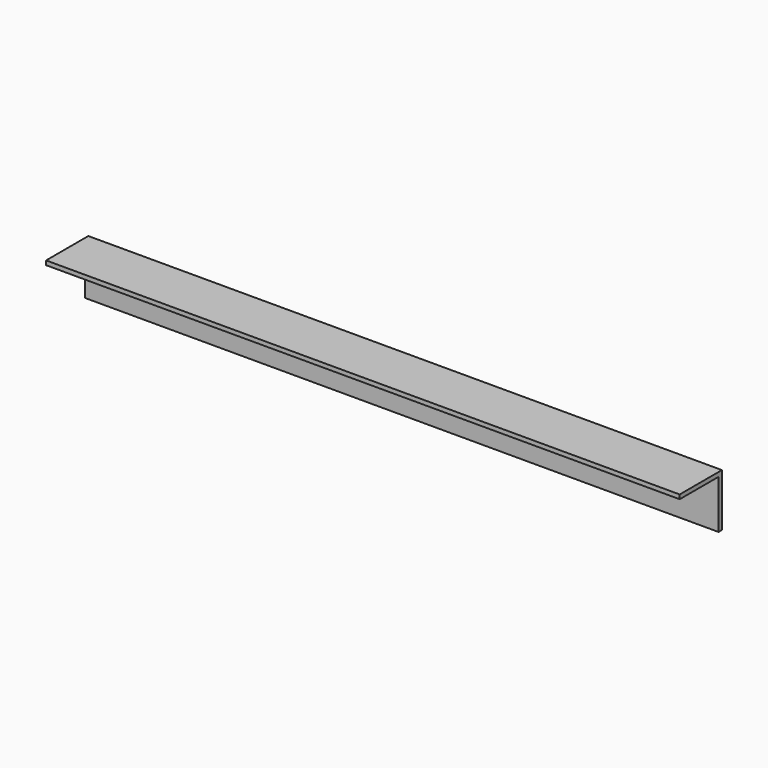
from build123d import *

# Parameters (mm, degrees)
F2_DEPTH = 150


with BuildPart() as f2:
    # F1 (on Right) → F2 (new body, through all)
    with BuildSketch(Plane.YZ):
        Polygon((-234.807621, 0), (-259.807621, 0), (-259.807621, -2), (-236.807621, -2), (-236.807621, -25), (-234.807621, -25), align=None)
    extrude(amount=F2_DEPTH)

    # F3: F2 across plane


with BuildPart() as f2_1:
    add(f2.part)
    add(f2.part.mirror(Plane.YZ))


solid = f2_1.part
